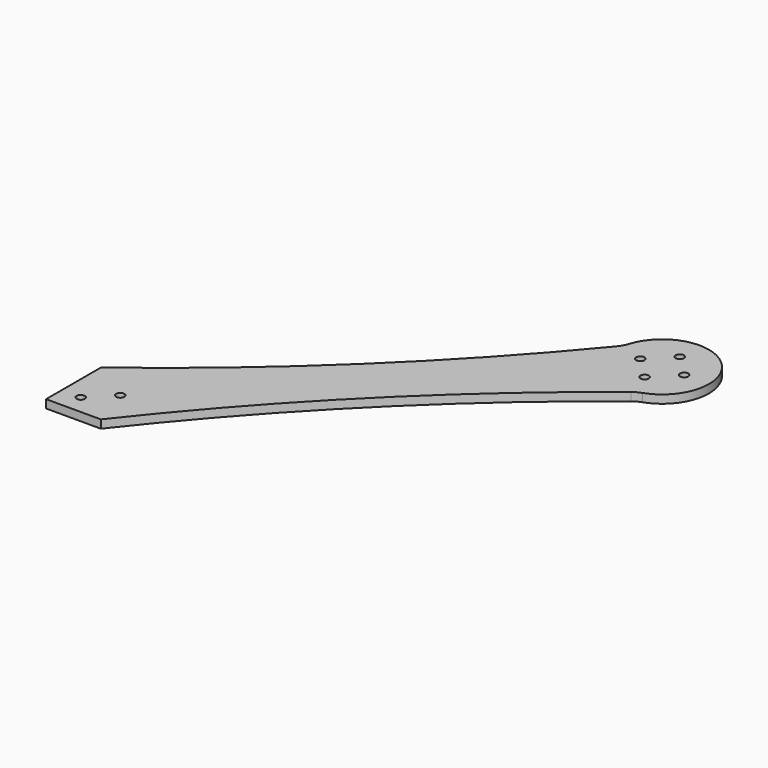
from build123d import *

# Parameters (mm, degrees)
F0_R     = 1.5
F1_DEPTH = 3


with BuildPart() as f1:
    # F0 (on Top) → F1 (new body)
    with BuildSketch(Plane.XY):
        with BuildLine():
            Line((0, 25), (0, 0.012484))
            Line((0, 0.012484), (19.924882, 0.012484))
            ThreePointArc((19.924882, 0.012484), (70.2441, 56.950418), (127.099193, 107.363218))
            ThreePointArc((127.099193, 107.363218), (128.476294, 108.269552), (129.983589, 108.937315))
            ThreePointArc((129.983589, 108.937315), (136.255642, 137.181062), (108.196322, 130.129648))
            ThreePointArc((108.196322, 130.129648), (107.44816, 128.372226), (106.379504, 126.789111))
            ThreePointArc((106.379504, 126.789111), (56.196653, 72.752052), (0, 25))
        make_face()
        with Locations((7, 7.012484)):
            Circle(F0_R, mode=Mode.SUBTRACT)
        with Locations((15.000002, 15.012486)):
            Circle(F0_R, mode=Mode.SUBTRACT)
        with Locations((124.402358, 116.995019)):
            Circle(F0_R, mode=Mode.SUBTRACT)
        with Locations((116.402358, 124.995019)):
            Circle(F0_R, mode=Mode.SUBTRACT)
        with Locations((132.402358, 124.995019)):
            Circle(F0_R, mode=Mode.SUBTRACT)
        with Locations((124.402358, 132.995019)):
            Circle(F0_R, mode=Mode.SUBTRACT)
    extrude(amount=F1_DEPTH)


solid = f1.part
